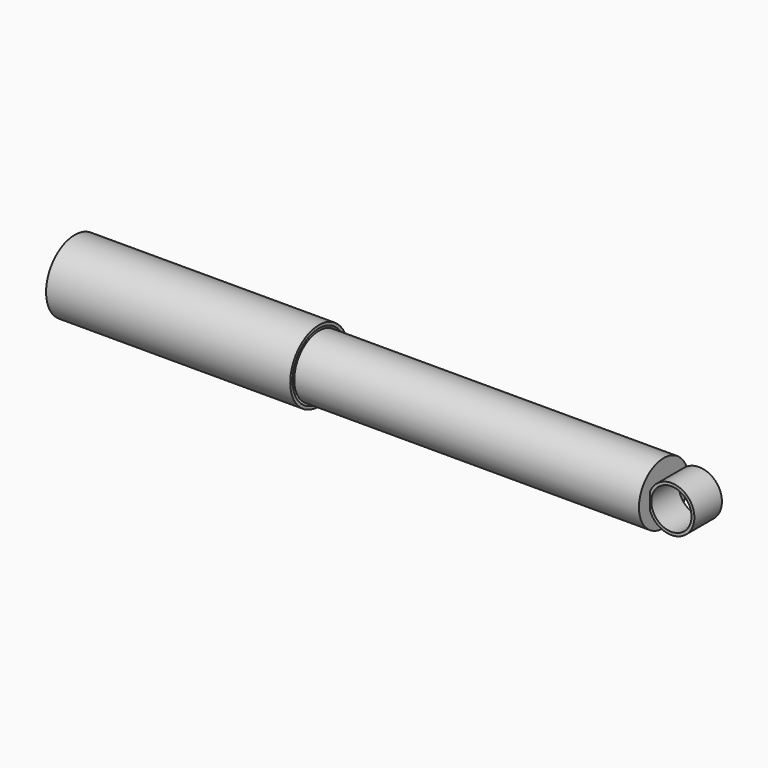
from build123d import *

# Parameters (mm, degrees)
F0_W     = 12
F0_H     = 4
F0_W_2   = 2
F0_H_2   = 12.5
F0_H_3   = 7
F0_H_4   = 19.5
F2_R     = 16
F2_R_2   = 14
F3_DEPTH = 12


with BuildPart() as f1:
    # F0 (on Front) → F1 (revolve)
    with BuildSketch(Plane.XZ):
        Polygon((422, 21.5), (182, 21.5), (182, 19.5), (184, 19.5), (420, 19.5), (422, 19.5), align=None)
        with Locations((6, 2)):
            Rectangle(F0_W, F0_H)
        Polygon((12, 4), (12, 0), (14, 0), (14, 23), (12, 23), align=None)
        Polygon((12, 25), (12, 23), (14, 23), (182, 23), (182, 25), align=None)
        with Locations((183, 13.25)):
            Rectangle(F0_W_2, F0_H_2)
        with Locations((183, 3.5)):
            Rectangle(F0_W_2, F0_H_3)
        with Locations((421, 9.75)):
            Rectangle(F0_W_2, F0_H_4)
    revolve(axis=Axis((250, 0, 0), (1, 0, 0)))

    # F2 (on Front) → F3 (join, symmetric)
    with BuildSketch(Plane.XZ):
        with Locations((437, 0)):
            Circle(F2_R)
        with Locations((437, 0)):
            Circle(F2_R_2, mode=Mode.SUBTRACT)
    extrude(amount=F3_DEPTH, both=True)


solid = f1.part
